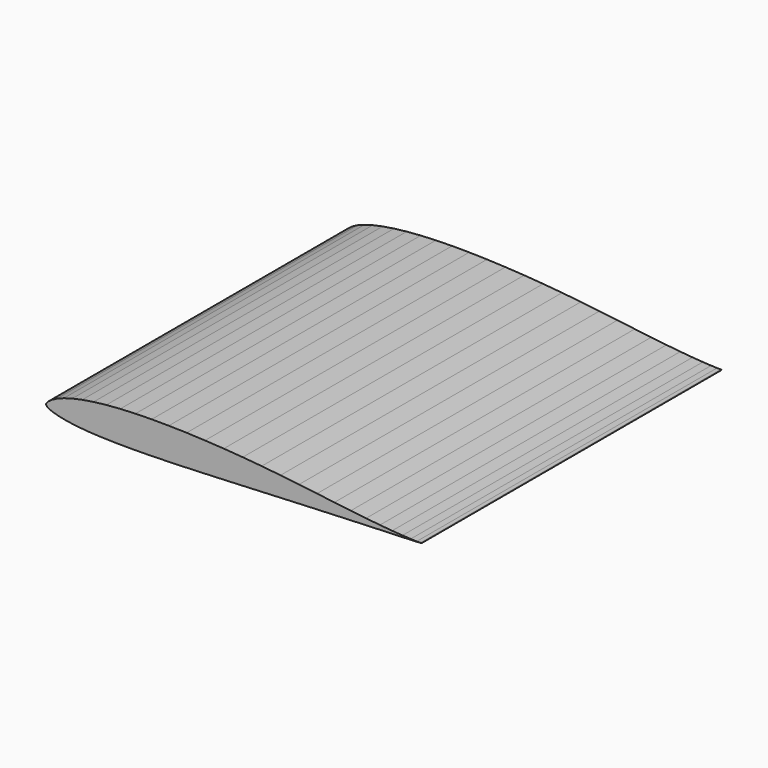
from build123d import *

# Parameters (mm, degrees)
F1_DEPTH = 25.4


with BuildPart() as f1:
    # F0 (on Front) → F1 (new body)
    with BuildSketch(Plane.XZ):
        Polygon((12.620498, -0.345567), (12.7, -0.340233), (12.618212, -0.340741), (12.372086, -0.338455), (11.96594, -0.324993), (11.408664, -0.295021), (10.710672, -0.245237), (9.88441, -0.172339), (8.946896, -0.076327), (7.914386, 0.040005), (6.80339, 0.172339), (5.630164, 0.315087), (4.41071, 0.461137), (3.158744, 0.602615), (1.886204, 0.732663), (0.603758, 0.846455), (-0.677926, 0.940943), (-1.947164, 1.014857), (-3.191256, 1.067181), (-4.39801, 1.096137), (-5.55498, 1.100963), (-6.651244, 1.079881), (-7.677658, 1.031875), (-8.625078, 0.957453), (-9.486646, 0.857885), (-10.254996, 0.734949), (-10.92454, 0.590931), (-11.490706, 0.428879), (-11.951462, 0.252857), (-12.30503, 0.069723), (-12.550394, -0.111125), (-12.685014, -0.274955), (-12.7, -0.340233), (-12.680188, -0.406273), (-12.52474, -0.524129), (-12.23518, -0.645033), (-11.820398, -0.760095), (-11.286236, -0.864489), (-10.63752, -0.953389), (-9.87933, -1.022477), (-9.015984, -1.069975), (-8.053578, -1.095629), (-6.99897, -1.100963), (-5.861812, -1.088517), (-4.653788, -1.060577), (-3.38709, -1.020191), (-2.075434, -0.969645), (-0.733552, -0.913003), (0.622808, -0.852551), (1.97739, -0.791083), (3.313176, -0.731139), (4.614164, -0.673227), (5.864098, -0.619125), (7.047738, -0.569341), (8.150606, -0.524383), (9.158986, -0.485013), (10.060178, -0.451231), (10.842752, -0.422783), (11.496802, -0.398653), (12.0142, -0.378333), (12.389358, -0.359791), align=None)
    extrude(amount=F1_DEPTH)


solid = f1.part
